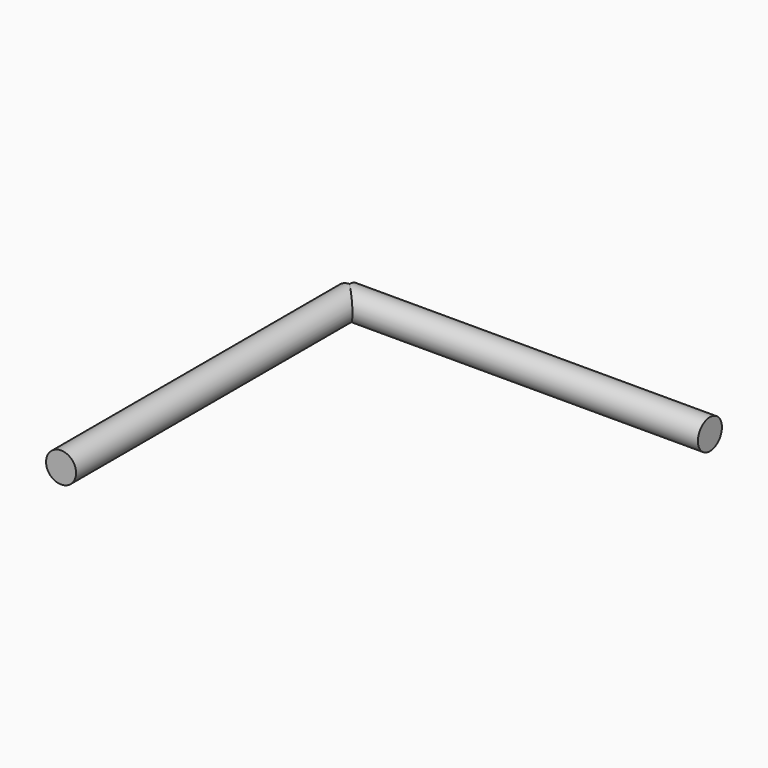
from build123d import *

# Parameters (mm, degrees)
F0_R      = 3.175
F1_DEPTH  = 76.2
F2_R      = 3.175
F3_DEPTH  = 25.4
F3_FACE_R = 3.175
F4_DEPTH  = 50.8


with BuildPart() as f1:
    # F0 (on Front) → F1 (new body)
    with BuildSketch(Plane.XZ):
        Circle(F0_R)
    extrude(amount=F1_DEPTH)

    # F2 (on Right) → F3 (join)
    with BuildSketch(Plane.YZ):
        Circle(F2_R)
    extrude(amount=F3_DEPTH)

    # F3_face (on face) → F4 (join)
    with BuildSketch(Plane.YZ.offset(25.4)):
        Circle(F3_FACE_R)
    extrude(amount=F4_DEPTH)


solid = f1.part
